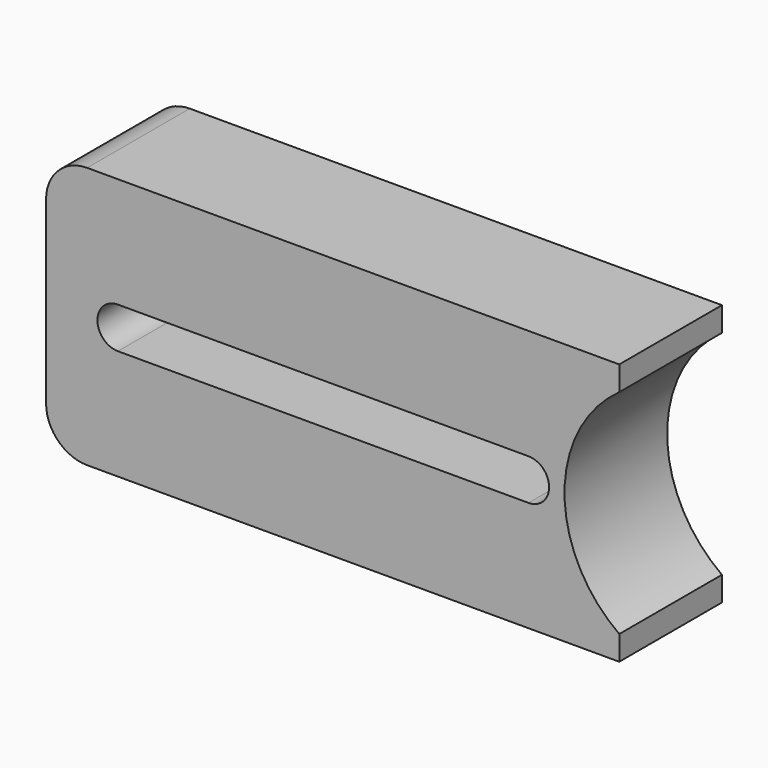
from build123d import *

# Parameters (mm, degrees)
F1_DEPTH = 25


with BuildPart() as f1:
    # F0 (on Front) → F1 (new body)
    with BuildSketch(Plane.XZ):
        with BuildLine():
            Line((55.833802, 25.5), (-47.833802, 25.5))
            ThreePointArc((-47.833802, 25.5), (-53.490656, 23.156854), (-55.833802, 17.5))
            Line((-55.833802, 17.5), (-55.833802, -17.5))
            ThreePointArc((-55.833802, -17.5), (-53.490656, -23.156854), (-47.833802, -25.5))
            Line((-47.833802, -25.5), (55.833802, -25.5))
            Line((55.833802, -25.5), (55.833802, -20.742469))
            ThreePointArc((55.833802, -20.742469), (45.166198, 0), (55.833802, 20.742469))
            Line((55.833802, 20.742469), (55.833802, 25.5))
        make_face()
        with BuildLine():
            Line((38.166198, -4), (-41.833802, -4))
            ThreePointArc((-41.833802, -4), (-45.833802, 0), (-41.833802, 4))
            Line((-41.833802, 4), (38.166198, 4))
            ThreePointArc((38.166198, 4), (42.166198, 0), (38.166198, -4))
        make_face(mode=Mode.SUBTRACT)
    extrude(amount=F1_DEPTH)


solid = f1.part
